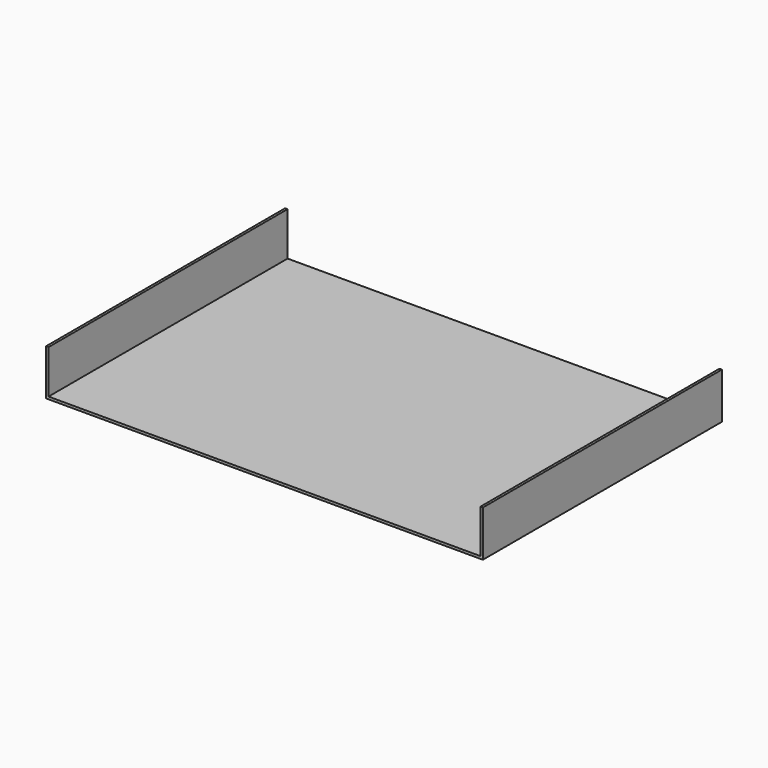
from build123d import *

# Parameters (mm, degrees)
F0_W     = 281.8
F0_H     = 195
F1_DEPTH = 1.6
F0_W_2   = 1.6
F2_DEPTH = 30


with BuildPart() as f1:
    # F0 (on Top) → F1 (new body)
    with BuildSketch(Plane.XY):
        Rectangle(F0_W, F0_H)
    extrude(amount=F1_DEPTH)

    # F0 (on Top) → F2 (join)
    with BuildSketch(Plane.XY):
        with Locations((-141.7, 0)):
            Rectangle(F0_W_2, F0_H)
        with Locations((141.7, 0)):
            Rectangle(F0_W_2, F0_H)
    extrude(amount=F2_DEPTH)


solid = f1.part
